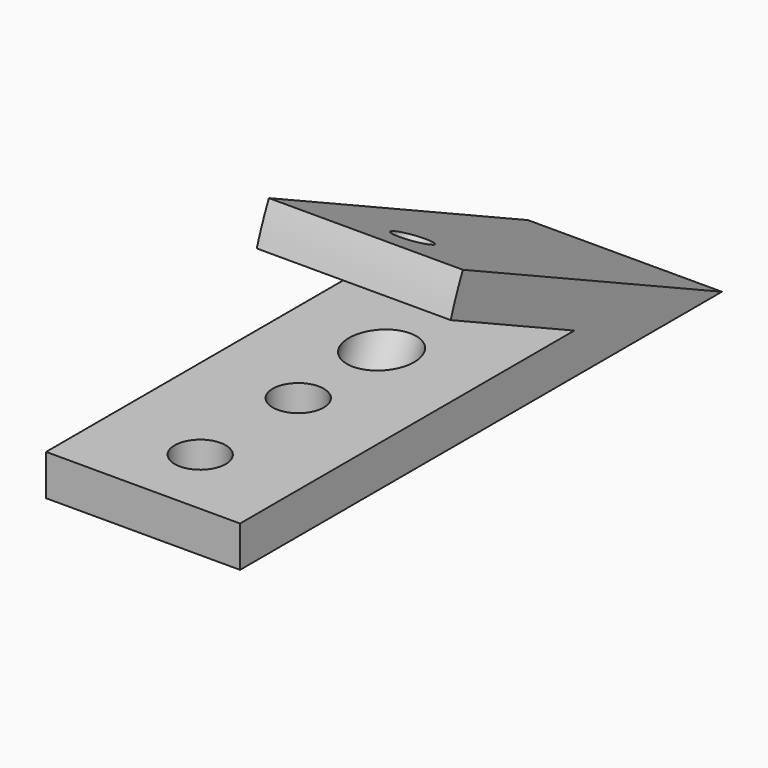
from build123d import *

# Parameters (mm, degrees)
CYLINDER077_R               = 3.2
CYLINDER077_DEPTH           = 10
CYLINDER077_PLACEMENT_ANGLE = 25
CYLINDER012_R               = 1.8
CYLINDER012_DEPTH           = 15
CYLINDER012_PLACEMENT_ANGLE = 25
CYLINDER023_R               = 2.5
CYLINDER023_DEPTH           = 10
CYLINDER020_R               = 2.5
CYLINDER020_DEPTH           = 10
CYLINDER021_W               = 35
CYLINDER021_H               = 19
CYLINDER021_ANGLE           = 25
CYLINDER022_W               = 35
CYLINDER022_H               = 19
CYLINDER022_ANGLE           = 25
BOX029_W                    = 19
BOX029_H                    = 50
BOX029_DEPTH                = 4


with BuildPart() as cylinder073:
    # Cylinder077 → Cylinder077 (new body)
    with BuildSketch(Plane.XY):
        Circle(CYLINDER077_R)
    extrude(amount=CYLINDER077_DEPTH)


with BuildPart() as cylinder073_1:
    # Cylinder077 placement: moved
    add(cylinder073.part.moved(Location((177.5, 259.740915, 1.649137))).rotate(Axis((177.5, 259.740915, 1.649137), (-1, 0, 0)), CYLINDER077_PLACEMENT_ANGLE))


with BuildPart() as m2bolt:
    # Cylinder012 → Cylinder012 (new body)
    with BuildSketch(Plane.XY):
        Circle(CYLINDER012_R)
    extrude(amount=CYLINDER012_DEPTH)


with BuildPart() as m2bolt_1:
    # Cylinder012 placement: moved
    add(m2bolt.part.moved(Location((177.5, 263.58, 9.88971))).rotate(Axis((177.5, 263.58, 9.88971), (-1, 0, 0)), CYLINDER012_PLACEMENT_ANGLE))


with BuildPart() as m4s005:
    # Cylinder023 → Cylinder023 (new body)
    with BuildSketch(Plane(origin=(177.5, 240.5, 0), x_dir=(1, 0, 0), z_dir=(0, 0, 1))):
        Circle(CYLINDER023_R)
    extrude(amount=CYLINDER023_DEPTH)


with BuildPart() as m4lowcut002:
    # Cylinder020 → Cylinder020 (new body)
    with BuildSketch(Plane(origin=(177.5, 252.5, 0), x_dir=(1, 0, 0), z_dir=(0, 0, 1))):
        Circle(CYLINDER020_R)
    extrude(amount=CYLINDER020_DEPTH)

    # Fusion011: union m4s005
    add(m4s005.part)


with BuildPart() as cylinder021:
    # Cylinder021 → Cylinder021 (revolve)
    with BuildSketch(Plane(origin=(187, 283, 4), x_dir=(0, -1, 0), z_dir=(0, 0, -1))):
        with Locations((17.5, 9.5)):
            Rectangle(CYLINDER021_W, CYLINDER021_H)
    revolve(axis=Axis((187, 283, 4), (-1, 0, 0)), revolution_arc=CYLINDER021_ANGLE)


with BuildPart() as bottom004:
    # Cylinder022 → Cylinder022 (revolve)
    with BuildSketch(Plane(origin=(187, 292.5, 4), x_dir=(0, -1, 0), z_dir=(0, 0, -1))):
        with Locations((17.5, 9.5)):
            Rectangle(CYLINDER022_W, CYLINDER022_H)
    revolve(axis=Axis((187, 292.5, 4), (-1, 0, 0)), revolution_arc=CYLINDER022_ANGLE)

    # Cut018: cut Cylinder021
    add(cylinder021.part, mode=Mode.SUBTRACT)


with BuildPart() as bottommid001:
    # Box029 → Box029 (new body)
    with BuildSketch(Plane(origin=(168, 233.5, 4), x_dir=(1, 0, 0), z_dir=(0, 0, 1))):
        with Locations((9.5, 25)):
            Rectangle(BOX029_W, BOX029_H)
    extrude(amount=BOX029_DEPTH)

    # Fusion012: union bottom004
    add(bottom004.part)

    # Cut019: cut m4lowCut002
    add(m4lowcut002.part, mode=Mode.SUBTRACT)

    # Cut029: cut m2Bolt
    add(m2bolt_1.part, mode=Mode.SUBTRACT)

    # Cut060: cut Cylinder073
    add(cylinder073_1.part, mode=Mode.SUBTRACT)


solid = bottommid001.part
